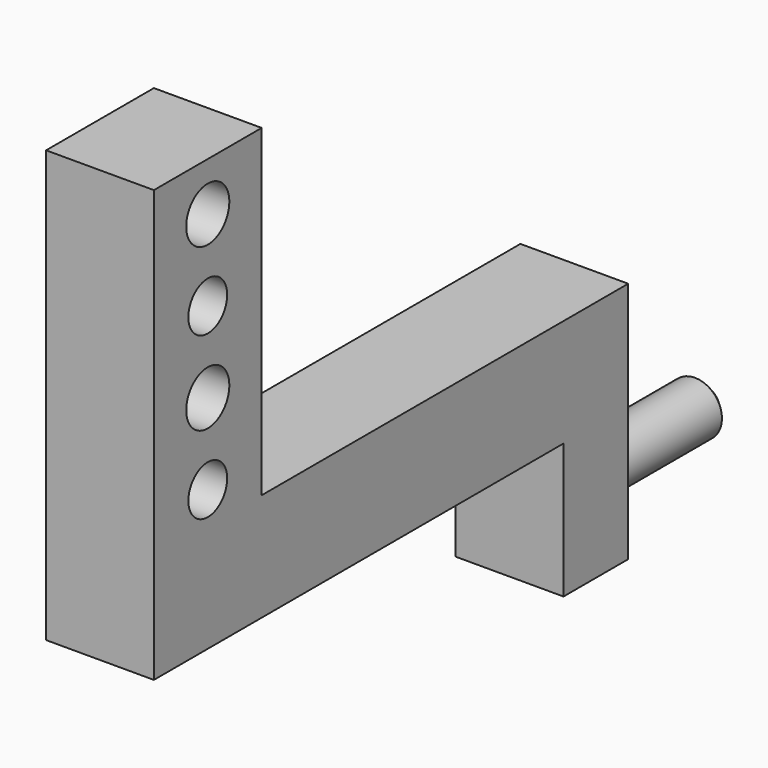
from build123d import *

# Parameters (mm, degrees)
F0_W     = 20
F0_H     = 25
F1_DEPTH = 80
F2_R     = 5
F2_R_2   = 4.5
F3_DEPTH = 25
F4_W     = 20
F4_H     = 20
F5_DEPTH = 70
F6_W     = 20
F6_H     = 45
F7_DEPTH = 15
F8_R     = 5
F9_DEPTH = 30
F10_SIZE = 2


with BuildPart() as f1:
    # F0 (on Top) → F1 (new body)
    with BuildSketch(Plane.XY):
        with Locations((10, -12.5)):
            Rectangle(F0_W, F0_H)
    extrude(amount=F1_DEPTH)

    # F2 (on face) → F3 (cut)
    with BuildSketch(Plane.YZ.offset(20)):
        with Locations((-12.5, 71)):
            Circle(F2_R)
        with Locations((-12.5, 56)):
            Circle(F2_R_2)
        with Locations((-12.5, 41)):
            Circle(F2_R)
        with Locations((-12.5, 26)):
            Circle(F2_R_2)
    extrude(amount=-F3_DEPTH, mode=Mode.SUBTRACT)

    # F4 (on face) → F5 (join)
    with BuildSketch(Plane(origin=(0, 0, 0), x_dir=(-1, 0, 0), z_dir=(0, 1, 0))):
        with Locations((-10, 10)):
            Rectangle(F4_W, F4_H)
    extrude(amount=F5_DEPTH)

    # F6 (on face) → F7 (join)
    with BuildSketch(Plane(origin=(0, 70, 0), x_dir=(-1, 0, 0), z_dir=(0, 1, 0))):
        with Locations((-10, -2.5)):
            Rectangle(F6_W, F6_H)
    extrude(amount=F7_DEPTH)

    # F8 (on face) → F9 (join)
    with BuildSketch(Plane(origin=(0, 85, 0), x_dir=(-1, 0, 0), z_dir=(0, 1, 0))):
        with Locations((-10, -15)):
            Circle(F8_R)
    extrude(amount=F9_DEPTH)

    # F10
    f10_edges = [f1.edges().sort_by_distance(p)[0] for p in [
        (15, 115, -15),
    ]]
    chamfer(f10_edges, length=F10_SIZE)


solid = f1.part
